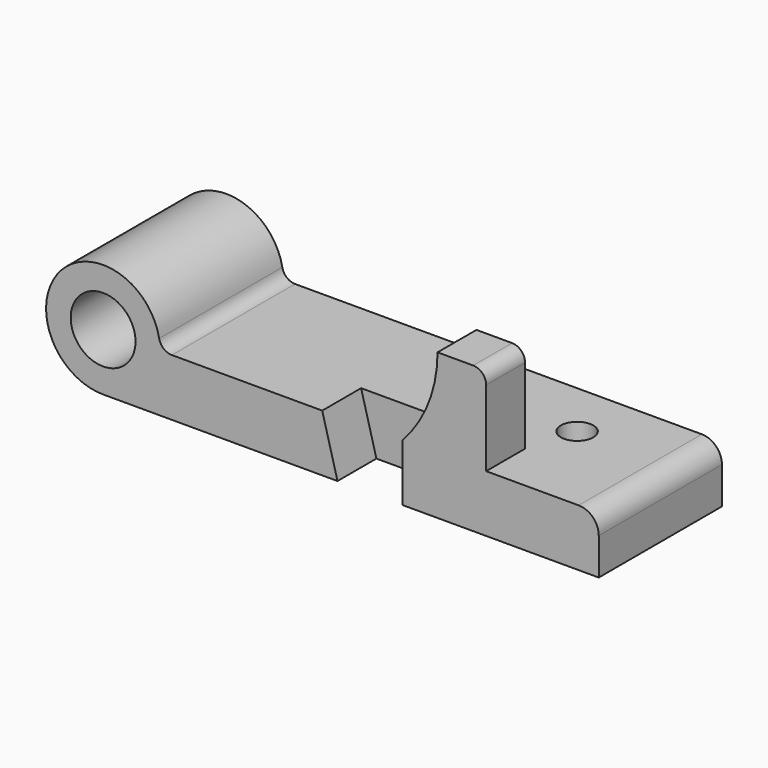
from build123d import *

# Parameters (mm, degrees)
F0_R     = 12.7
F1_DEPTH = 30.1625
F3_DEPTH = 19.05
F5_DEPTH = 19.05
F6_R     = 6.35
F7_DEPTH = 22.353
F8_R     = 5.08


with BuildPart() as f1:
    # F0 (on Front) → F1 (new body, symmetric)
    with BuildSketch(Plane.XZ):
        with BuildLine():
            Line((100.4062, 0), (-63.5762, 0))
            ThreePointArc((-63.5762, 0), (-101.733451, 15.805251), (-85.9282, -22.352))
            Line((-85.9282, -22.352), (108.2802, -22.352))
            Line((108.2802, -22.352), (108.2802, -7.874))
            ThreePointArc((108.2802, -7.874), (105.973959, -2.306241), (100.4062, 0))
        make_face()
        with Locations((-85.9282, 0)):
            Circle(F0_R, mode=Mode.SUBTRACT)
    extrude(amount=F1_DEPTH, both=True)

    # F2 (on face) → F3 (cut)
    with BuildSketch(Plane.XZ.offset(30.1625)):
        Polygon((31.3182, 0), (-0.0762, 0), (5.9182, -22.352), (31.3182, -22.352), align=None)
    extrude(amount=-F3_DEPTH, mode=Mode.SUBTRACT)

    # F4 (on face) → F5 (join)
    with BuildSketch(Plane.XZ.offset(30.1625)):
        with BuildLine():
            ThreePointArc((64.1604, 29.718), (62.672502, 33.310102), (59.0804, 34.798))
            Line((59.0804, 34.798), (45.1104, 34.798))
            ThreePointArc((45.1104, 34.798), (41.536215, 16.082358), (31.3182, 0))
            Line((31.3182, 0), (64.1604, 0))
            Line((64.1604, 0), (64.1604, 29.718))
        make_face()
    extrude(amount=-F5_DEPTH)

    # F6 (on face) → F7 (cut, through all)
    with BuildSketch(Plane.XY):
        with Locations((69.4182, 7.8105)):
            Circle(F6_R)
    extrude(amount=-F7_DEPTH, mode=Mode.SUBTRACT)

    # F8
    f8_edges = [f1.edges().sort_by_distance(p)[0] for p in [
        (-63.5762, 0, 0),
    ]]
    fillet(f8_edges, radius=F8_R)


solid = f1.part
